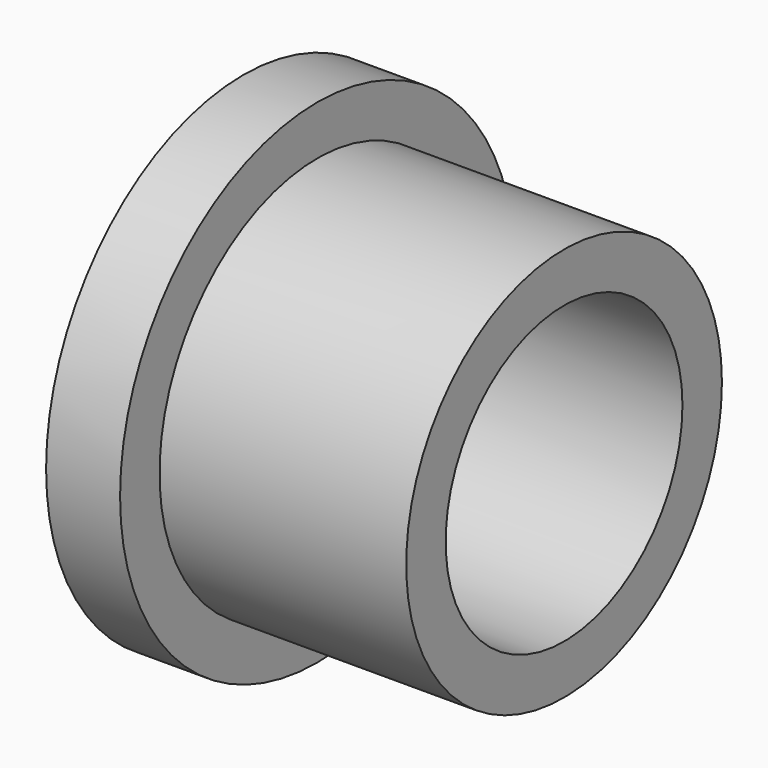
from build123d import *

# Parameters (mm, degrees)
F0_R     = 50
F0_R_2   = 40
F0_R_3   = 30
F1_DEPTH = 15
F2_DEPTH = 65


with BuildPart() as f1:
    # F0 (on Right) → F1 (new body)
    with BuildSketch(Plane.YZ):
        Circle(F0_R)
        Circle(F0_R_2, mode=Mode.SUBTRACT)
        Circle(F0_R_2)
        Circle(F0_R_3, mode=Mode.SUBTRACT)
    extrude(amount=F1_DEPTH)

    # F0 (on Right) → F2 (join)
    with BuildSketch(Plane.YZ):
        Circle(F0_R_2)
        Circle(F0_R_3, mode=Mode.SUBTRACT)
    extrude(amount=F2_DEPTH)


solid = f1.part
